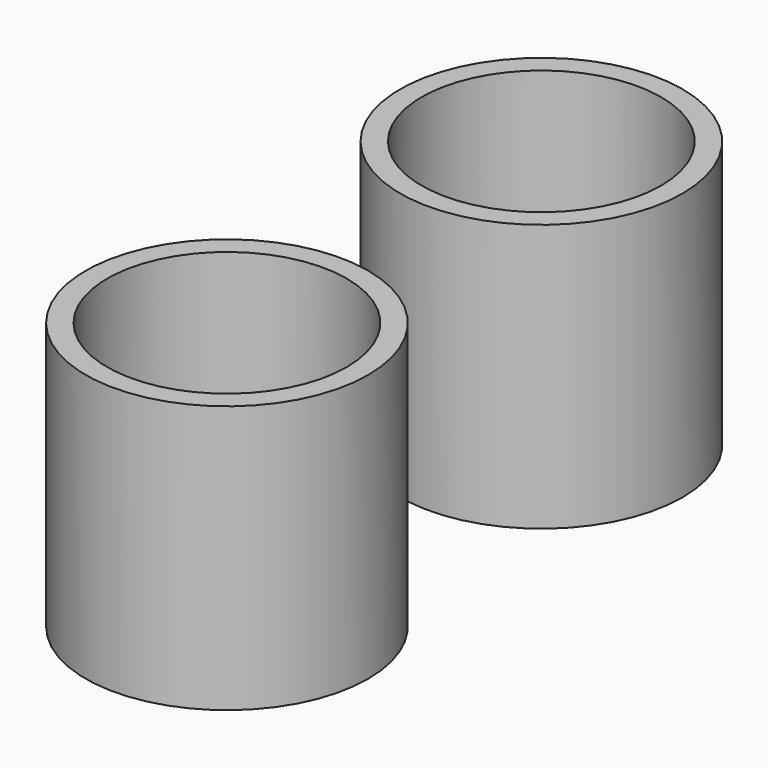
from build123d import *

# Parameters (mm, degrees)
F0_R     = 13.2
F0_R_2   = 11.2
F1_DEPTH = 25


with BuildPart() as f1:
    # F0 (on Top) → F1 (new body)
    with BuildSketch(Plane.XY):
        Circle(F0_R)
        Circle(F0_R_2, mode=Mode.SUBTRACT)
        with Locations((0, 36.732119)):
            Circle(F0_R)
        with Locations((0, 36.732119)):
            Circle(F0_R_2, mode=Mode.SUBTRACT)
    extrude(amount=F1_DEPTH)


solid = f1.part
